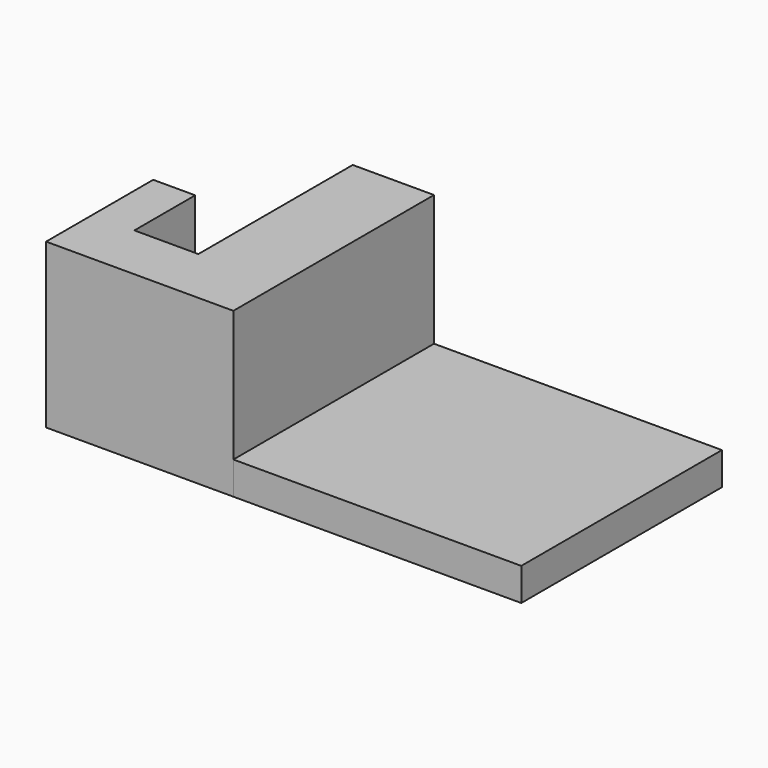
from build123d import *

# Parameters (mm, degrees)
F0_W     = 43.983128
F0_H     = 38.316023
F0_W_2   = 6.416152
F0_H_2   = 11.618437
F1_DEPTH = 5
F2_DEPTH = 25


with BuildPart() as f1:
    # F0 (on Top) → F1 (new body)
    with BuildSketch(Plane.XY):
        Polygon((0, 8.840146), (0, 0), (12.422599, 0), (12.422599, 38.316023), (0, 38.316023), align=None)
        Polygon((-16.18997, 0), (0, 0), (0, 8.840146), (-9.773818, 8.840146), (-16.18997, 8.840146), align=None)
        with Locations((34.414163, 19.158012)):
            Rectangle(F0_W, F0_H)
        with Locations((-12.981894, 14.649364)):
            Rectangle(F0_W_2, F0_H_2)
    extrude(amount=F1_DEPTH)

    # F0 (on Top) → F2 (join)
    with BuildSketch(Plane.XY):
        Polygon((0, 8.840146), (0, 0), (12.422599, 0), (12.422599, 38.316023), (0, 38.316023), align=None)
        Polygon((-16.18997, 0), (0, 0), (0, 8.840146), (-9.773818, 8.840146), (-16.18997, 8.840146), align=None)
        with Locations((-12.981894, 14.649364)):
            Rectangle(F0_W_2, F0_H_2)
    extrude(amount=F2_DEPTH)


solid = f1.part
